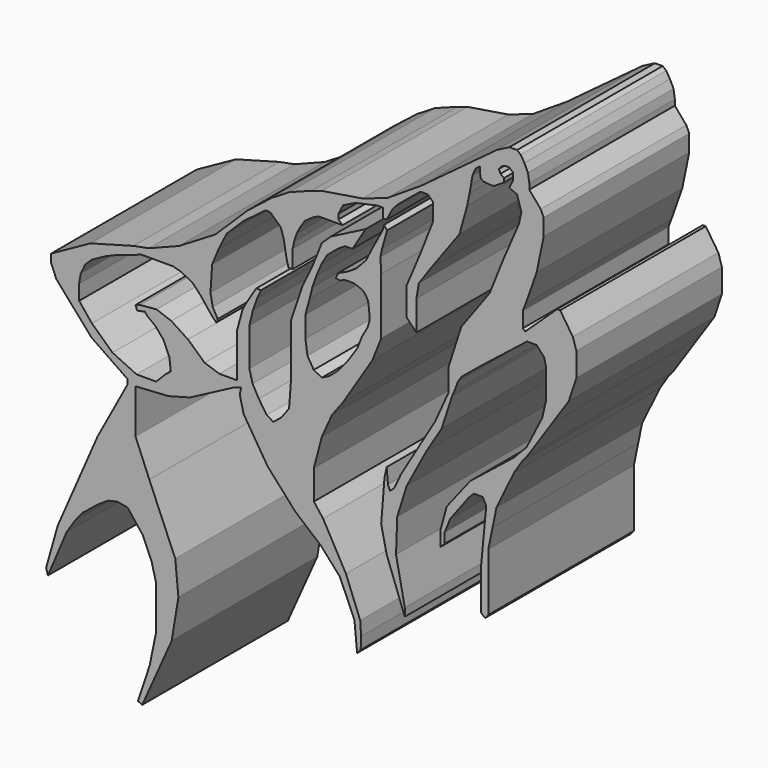
from build123d import *

# Parameters (mm, degrees)
F1_DEPTH = 25.4


with BuildPart() as f1:
    # F0 (on Front) → F1 (new body)
    with BuildSketch(Plane.XZ):
        Polygon((-36.87584, -9.837643), (-38.490303, -15.5341), (-38.234711, -16.382733), (-35.610482, -10.180012), (-34.465365, -8.414622), (-33.415675, -7.126365), (-31.220865, -5.360976), (-29.83718, -4.454424), (-28.548924, -4.168145), (-27.117526, -4.406711), (-25.018144, -7.078652), (-23.737146, -10.019855), (-23.1767, -12.261637), (-23.1767, -18.650716), (-24.03605, -22.835378), (-25.671467, -27.728711), (-25.069019, -27.997643), (-20.953342, -18.777909), (-20.02251, -13.13087), (-20.456897, -8.538771), (-24.081731, 0), (-26.005905, 4.682644), (-26.005905, 7.790739), (-26.005905, 9.499255), (-26.005905, 10.84408), (-21.38773, 11.132782), (-18.409071, 11.939502), (-12.265588, 15.166382), (-11.272702, 15.476659), (-11.458868, 14.545829), (-10.90037, 12.311835), (-7.54938, 6.975073), (-3.701947, 2.693252), (-0.16479, -0.285406), (2.503591, -3.264064), (4.551419, -7.918217), (4.923751, -11.889761), (5.420194, -11.331263), (5.482249, -9.655768), (5.358139, -7.732051), (3.366662, -2.632813), (0.171198, 3.102232), (-1.111822, 4.770158), (-1.111822, 8.875827), (0, 13.109796), (1.442342, 16.286297), (2.946582, 18.275775), (7.071112, 24.826501), (8.284209, 27.883504), (8.284209, 35.792898), (8.187162, 37.879426), (8.429781, 38.995475), (9.109116, 41.421667), (8.672401, 41.95543), (8.478304, 41.17905), (7.265207, 38.946949), (6.149158, 36.763377), (4.79049, 35.307661), (3.625916, 34.579799), (2.267248, 33.948991), (1.927581, 33.221133), (2.509867, 33.124086), (3.237725, 33.415228), (4.499346, 33.415228), (5.4213, 33.07556), (5.906539, 32.784417), (6.440302, 31.959511), (6.585874, 30.940508), (6.682921, 29.630365), (6.391779, 28.611362), (5.615396, 27.252695), (4.936061, 25.554357), (4.256727, 24.535356), (3.625916, 23.613403), (2.801011, 22.594402), (2.121676, 21.818018), (1.05415, 20.896064), (0, 20.362303), (-1.129424, 20.944588), (-2.002855, 22.400305), (-2.293997, 24.389785), (-2.293997, 27.349742), (-1.711711, 29.484792), (-1.32352, 31.037556), (-0.741233, 32.68737), (-0.061899, 34.288656), (0.763007, 35.695851), (2.267248, 36.957473), (3.237725, 37.574518), (4.276493, 37.574518), (6.121801, 40.606093), (1.244918, 38.101748), (0, 36.915477), (-1.262146, 33.752095), (-2.708001, 30.730478), (-4.331853, 25.90966), (-4.331853, 23.372388), (-4.331853, 18.348588), (-4.484091, 16.21728), (-4.585581, 15.050134), (-5.651236, 13.629261), (-6.767635, 12.715844), (-7.681055, 13.274044), (-8.797454, 14.897898), (-9.660127, 16.471006), (-10.116836, 18.196352), (-10.116836, 19.921698), (-10.116836, 23.473877), (-9.60938, 25.554443), (-9.000435, 27.229041), (-8.492981, 28.345441), (-9.163463, 28.345441), (-10.671838, 25.89987), (-11.107911, 24.994181), (-11.510524, 23.496645), (-11.8295, 22.321474), (-11.8295, 20.726597), (-11.847337, 18.86311), (-11.847337, 16.185137), (-12.668046, 16.185137), (-14.309461, 16.185137), (-16.361229, 16.869061), (-18.686568, 18.989222), (-21.011908, 20.493852), (-23.063676, 21.246167), (-25.409532, 21.034152), (-26.004545, 20.835813), (-25.799368, 20.220283), (-24.705091, 20.425459), (-24.36313, 20.015106), (-23.268852, 19.194398), (-22.106184, 17.826552), (-21.285476, 15.979961), (-21.080298, 14.270152), (-21.764223, 13.723014), (-23.132067, 12.355168), (-25.86776, 12.355168), (-29.218983, 13.928191), (-32.091461, 16.59549), (-33.869661, 18.784044), (-33.869661, 20.904206), (-33.664484, 22.20366), (-33.04895, 23.503114), (-32.137781, 24.392214), (-30.244846, 25.435764), (-28.486338, 26.186062), (-26.352681, 26.842572), (-25.27413, 27.288061), (-20.725455, 27.288061), (-19.67035, 26.983252), (-18.099416, 26.209509), (-16.927077, 24.966829), (-15.871972, 23.630364), (-15.274079, 22.89179), (-14.72308, 22.340791), (-14.535506, 22.528365), (-14.535506, 22.833172), (-15.23891, 24.0993), (-15.543718, 25.76402), (-15.30925, 29.304482), (-14.394825, 31.508479), (-13.276163, 33.751881), (-10.926538, 36.059231), (-7.860033, 38.365245), (-7.197668, 38.340714), (-5.725745, 36.966916), (-5.333233, 35.715785), (-5.136976, 34.636375), (-4.916188, 33.360709), (-4.646336, 32.354895), (-4.082099, 32.354895), (-4.082099, 33.826817), (-4.082099, 34.857161), (-3.86131, 35.838444), (-3.49333, 36.966916), (-2.953625, 37.972733), (-2.364856, 38.855884), (-1.262146, 39.642079), (-0.451617, 40.036391), (2.882637, 40.036391), (2.319101, 40.552966), (2.319101, 41.257385), (2.976559, 42.52534), (4.714128, 43.370645), (7.719652, 44.028103), (8.564956, 44.028103), (8.564956, 42.713188), (9.034569, 42.713188), (9.879873, 44.309869), (10.725177, 45.202136), (12.368822, 46.564013), (13.777662, 47.691084), (14.810812, 47.691084), (15.551724, 46.960887), (15.551724, 44.662155), (13.789686, 40.154621), (11.798239, 35.447568), (11.798239, 31.645715), (13.208504, 30.197391), (13.208504, 31.283636), (13.208504, 34.381501), (13.54043, 36.373053), (15.347579, 38.954694), (19.220041, 44.265497), (20.289579, 48.101082), (20.621505, 49.723826), (20.805907, 50.719604), (21.027191, 52.047305), (21.469757, 53.043079), (22.096727, 53.522527), (22.096727, 52.858677), (22.133607, 52.121066), (22.539295, 51.789138), (23.276906, 51.715378), (24.014518, 51.715378), (25.415981, 52.600514), (25.415981, 53.15372), (24.936533, 53.522527), (24.715248, 54.038856), (25.084056, 54.481424), (25.563503, 54.702707), (26.153592, 54.702707), (26.706802, 54.223258), (26.706802, 53.301245), (26.349696, 52.605697), (26.174664, 52.199312), (27.251616, 51.735464), (27.855309, 49.723156), (27.503155, 48.163619), (25.292154, 43.030165), (23.422709, 38.35655), (19.450137, 32.91513), (17.669388, 27.37356), (17.669388, 24.232368), (18.181585, 24.00188), (18.482031, 24.669539), (19.016158, 26.105007), (19.527037, 26.835686), (22.173068, 29.010506), (28.643157, 34.121335), (29.984297, 34.121335), (31.017337, 32.961432), (31.296331, 31.880219), (31.296331, 29.811179), (31.296331, 27.718516), (30.755728, 25.399147), (28.593307, 21.126624), (26.844123, 19.284079), (20.728098, 14.412357), (17.426383, 10.190493), (16.560361, 6.997032), (16.560361, 4.940226), (17.155752, 5.535617), (17.155752, 6.942905), (17.913522, 8.837331), (20.51159, 12.301425), (21.215236, 13.005069), (22.460144, 13.005069), (22.947283, 12.084918), (22.216804, 4.290709), (22.216804, -1.292009), (22.784902, -1.771455), (23.241701, -1.23019), (23.241701, 5.264985), (23.241701, 6.840935), (23.836227, 9.711797), (24.38158, 12.345212), (26.857723, 17.454857), (27.934717, 19.14059), (28.769352, 20.192301), (32.16758, 25.25633), (34.477685, 28.698841), (35.526633, 31.871311), (35.526633, 35.187911), (35.032675, 36.775649), (33.268522, 39.457154), (32.845128, 39.457154), (28.399471, 35.258479), (28.046641, 35.540741), (28.046641, 36.881495), (28.046641, 37.693005), (28.464191, 38.733087), (29.991521, 43.06053), (30.965751, 47.770191), (30.965751, 50.116014), (30.547636, 51.009558), (28.959882, 52.877504), (28.959882, 53.655814), (28.773088, 54.901112), (28.27497, 55.92848), (27.745718, 56.800187), (27.249981, 57.192825), (26.174664, 57.192825), (24.442207, 56.296725), (13.882839, 48.462119), (9.13362, 45.406103), (5.683276, 44.225711), (0, 43.312885), (-1.429163, 42.85647), (-4.547988, 41.677404), (-7.020225, 40.156025), (-10.367256, 37.531652), (-14.860615, 33.119138), (-19.932244, 30.057887), (-24.135755, 28.413033), (-26.283203, 28.001821), (-32.31433, 26.356967), (-37.80432, 23.3074), (-37.80432, 22.21158), (-37.058789, 20.410948), (-32.137781, 14.816983), (-27.102299, 11.357305), (-27.102299, 10.732251), (-31.307194, 2.947513), align=None)
        Polygon((16.733615, 19.560516), (18.181585, 24.00188), (17.669388, 24.232368), (15.832176, 20.14967), (11.043477, 12.073589), (10.094515, 10.057045), (9.539022, 9.533209), (9.233046, 10.206355), (9.04946, 12.317588), (8.743485, 10.879502), (8.284521, 5.09656), (9.04946, 1.577839), (11.578184, -5.255457), (11.578184, -4.119515), (10.354862, 1.997098), (10.529622, 6.715628), (11.840325, 10.909877), (14.63649, 16.152689), align=None)
    extrude(amount=F1_DEPTH)


solid = f1.part
